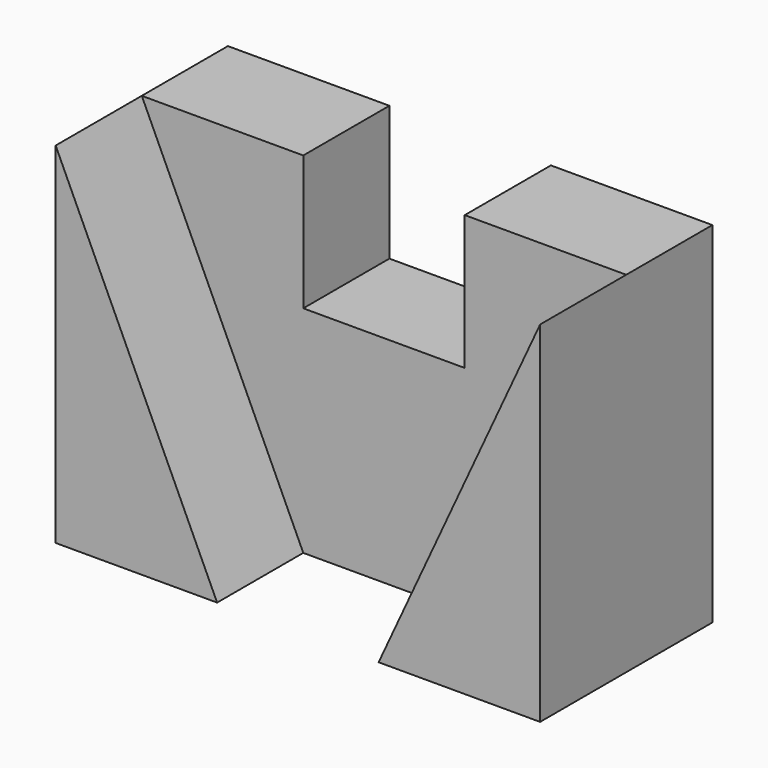
from build123d import *

# Parameters (mm, degrees)
F0_W     = 90
F0_H     = 40
F1_DEPTH = 65
F2_W     = 30
F2_H     = 20
F3_DEPTH = 25
F5_DEPTH = 20


with BuildPart() as f1:
    # F0 (on Top) → F1 (new body)
    with BuildSketch(Plane.XY):
        with Locations((-16.223909, -34.951821)):
            Rectangle(F0_W, F0_H)
    extrude(amount=F1_DEPTH)

    # F2 (on face) → F3 (cut)
    with BuildSketch(Plane.XY.offset(65)):
        with Locations((-16.223909, -24.951821)):
            Rectangle(F2_W, F2_H)
    extrude(amount=-F3_DEPTH, mode=Mode.SUBTRACT)

    # F4 (on face) → F5 (cut)
    with BuildSketch(Plane.XZ.offset(54.951821)):
        Polygon((-61.223909, 65), (-31.223909, 0), (-1.223909, 0), (28.776091, 65), align=None)
    extrude(amount=-F5_DEPTH, mode=Mode.SUBTRACT)


solid = f1.part
